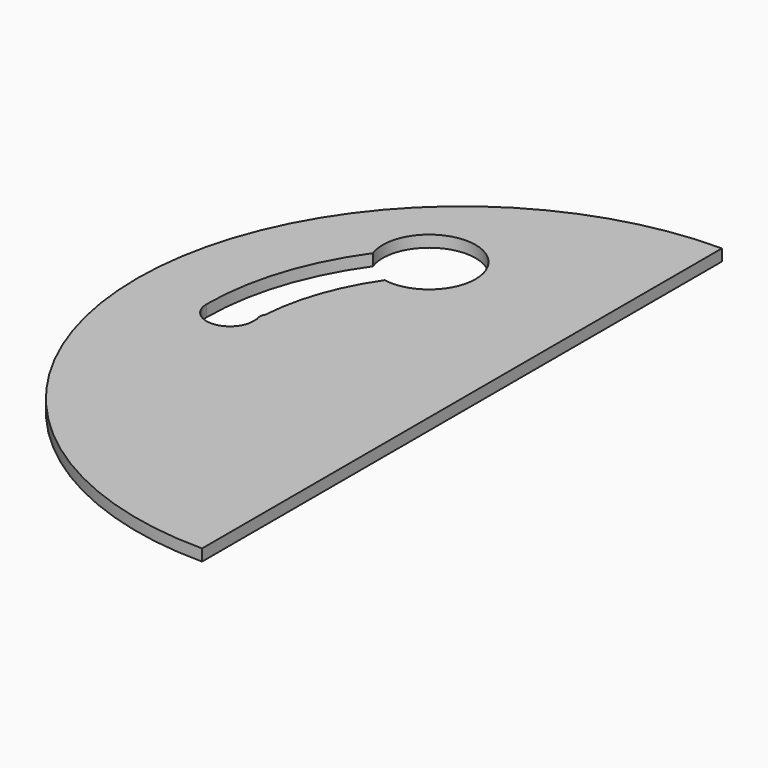
from build123d import *

# Parameters (mm, degrees)
F1_DEPTH = 1.5875


with BuildPart() as f1:
    # F0 (on Top) → F1 (new body)
    with BuildSketch(Plane.XY):
        with BuildLine():
            Line((0, -44.45), (0, 44.45))
            ThreePointArc((0, 44.45), (-31.430896, 31.430896), (-44.45, 0))
            ThreePointArc((-44.45, 0), (-31.430896, -31.430896), (0, -44.45))
        make_face()
        with BuildLine():
            ThreePointArc((-28.575, 0), (-31.75, -3.175), (-34.925, 0))
            ThreePointArc((-34.925, 0), (-33.259902, 10.65526), (-28.423379, 20.294511))
            ThreePointArc((-28.423379, 20.294511), (-18.366773, 27.313204), (-23.54243, 16.195203))
            ThreePointArc((-23.54243, 16.195203), (-26.972249, 9.435487), (-28.504091, 2.011817))
            ThreePointArc((-28.504091, 2.011817), (-28.709383, 1.378157), (-28.565731, 0.727747))
            ThreePointArc((-28.565731, 0.727747), (-28.572683, 0.363903), (-28.575, 0))
        make_face(mode=Mode.SUBTRACT)
        with BuildLine():
            Line((0, -44.45), (0, 44.45))
            ThreePointArc((0, 44.45), (-31.430896, 31.430896), (-44.45, 0))
            ThreePointArc((-44.45, 0), (-31.430896, -31.430896), (0, -44.45))
        make_face()
        with BuildLine():
            ThreePointArc((-28.575, 0), (-31.75, -3.175), (-34.925, 0))
            ThreePointArc((-34.925, 0), (-33.259902, 10.65526), (-28.423379, 20.294511))
            ThreePointArc((-28.423379, 20.294511), (-18.366773, 27.313204), (-23.54243, 16.195203))
            ThreePointArc((-23.54243, 16.195203), (-26.972249, 9.435487), (-28.504091, 2.011817))
            ThreePointArc((-28.504091, 2.011817), (-28.709383, 1.378157), (-28.565731, 0.727747))
            ThreePointArc((-28.565731, 0.727747), (-28.572683, 0.363903), (-28.575, 0))
        make_face(mode=Mode.SUBTRACT)
    extrude(amount=F1_DEPTH)


solid = f1.part
